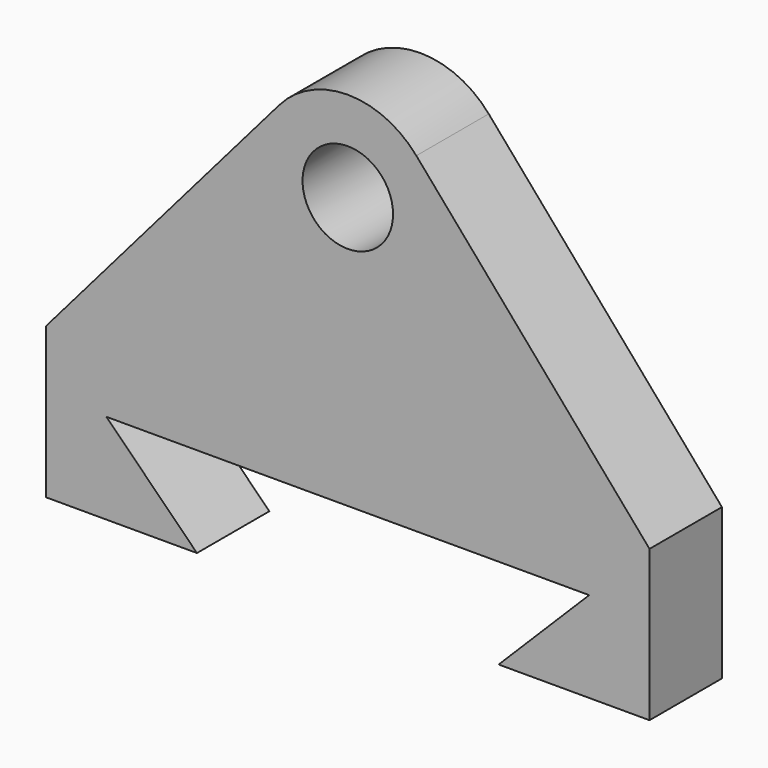
from build123d import *

# Parameters (mm, degrees)
F0_R     = 15
F1_DEPTH = 30


with BuildPart() as f1:
    # F0 (on Front) → F1 (new body)
    with BuildSketch(Plane.XZ):
        with BuildLine():
            ThreePointArc((-22.716467, 19.594952), (-10.452416, -28.120224), (30, 0))
            ThreePointArc((30, 0), (28.120224, 10.452416), (22.716467, 19.594952))
            ThreePointArc((22.716467, 19.594952), (0, 30), (-22.716467, 19.594952))
        make_face()
        Circle(F0_R, mode=Mode.SUBTRACT)
        with BuildLine():
            ThreePointArc((22.716467, 19.594952), (28.120224, 10.452416), (30, 0))
            ThreePointArc((30, 0), (-10.452416, -28.120224), (-22.716467, 19.594952))
            Line((-22.716467, 19.594952), (-100, -70))
            Line((-100, -70), (100, -70))
            Line((100, -70), (22.716467, 19.594952))
        make_face()
        Polygon((100, -120), (100, -70), (-100, -70), (-100, -120), (-50, -120), (-80, -90), (80, -90), (50, -120), align=None)
    extrude(amount=F1_DEPTH)


solid = f1.part
